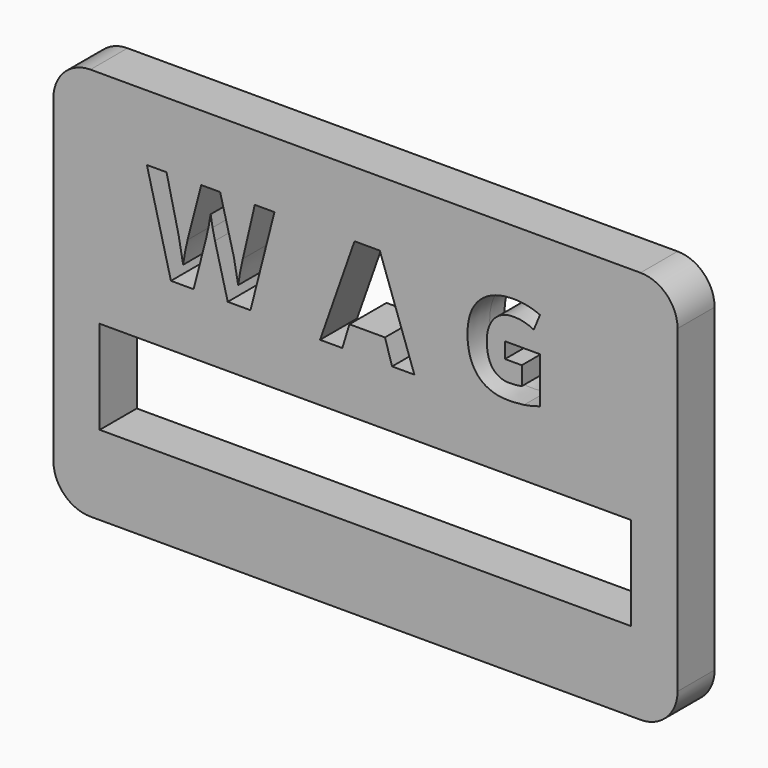
from build123d import *

# Parameters (mm, degrees)
F0_W     = 72.898
F0_H     = 12.8099111192
F1_DEPTH = 2.54
F2_DEPTH = 6.35


with BuildPart() as f1:
    # F0 (on Front) → F1 (new body)
    with BuildSketch(Plane.XZ):
        with BuildLine():
            Line((37.719, 26.9875), (-37.719, 26.9875))
            ThreePointArc((-37.719, 26.9875), (-41.3111024484, 25.4996024484), (-42.799, 21.9075))
            Line((-42.799, 21.9075), (-42.799, -21.9075))
            ThreePointArc((-42.799, -21.9075), (-41.3111024484, -25.4996024484), (-37.719, -26.9875))
            Line((-37.719, -26.9875), (37.719, -26.9875))
            ThreePointArc((37.719, -26.9875), (41.3111024484, -25.4996024484), (42.799, -21.9075))
            Line((42.799, -21.9075), (42.799, 21.9075))
            ThreePointArc((42.799, 21.9075), (41.3111024484, 25.4996024484), (37.719, 26.9875))
        make_face()
        with Locations((0, -9.6914345084)):
            Rectangle(F0_W, F0_H, mode=Mode.SUBTRACT)
        with BuildLine():
            Line((-12.4844893827, 17.9872417715), (-15.7724463003, 5.0700662284))
            Line((-15.7724463003, 5.0700662284), (-18.890775174, 5.0700662284))
            Line((-18.890775174, 5.0700662284), (-20.6407711603, 11.8551879844))
            add(Edge.make_bspline(
                [(-20.6407711603, 11.8551879844), (-20.7368937185, 12.2170611447), (-20.9715458459, 13.3521554719)],
                knots=[0, 0, 0, 1, 1, 1], degree=2))
            add(Edge.make_bspline(
                [(-20.9715458459, 13.3521554719), (-21.2061979733, 14.487249799), (-21.2401235821, 14.8773942999)],
                knots=[0, 0, 0, 1, 1, 1], degree=2))
            add(Edge.make_bspline(
                [(-21.2401235821, 14.8773942999), (-21.2938391293, 14.3996086429), (-21.5058741842, 13.3436740697)],
                knots=[0, 0, 0, 1, 1, 1], degree=2))
            add(Edge.make_bspline(
                [(-21.5058741842, 13.3436740697), (-21.7179092391, 12.2877394964), (-21.8338217357, 11.83822518)],
                knots=[0, 0, 0, 1, 1, 1], degree=2))
            Line((-21.8338217357, 11.83822518), (-23.5725091857, 5.0700662284))
            Line((-23.5725091857, 5.0700662284), (-26.6823566572, 5.0700662284))
            Line((-26.6823566572, 5.0700662284), (-29.9787949771, 17.9872417715))
            Line((-29.9787949771, 17.9872417715), (-27.2845362131, 17.9872417715))
            Line((-27.2845362131, 17.9872417715), (-25.6306627851, 10.9363694133))
            add(Edge.make_bspline(
                [(-25.6306627851, 10.9363694133), (-25.1981112731, 8.9828197744), (-25.0058661567, 7.5522899375)],
                knots=[0, 0, 0, 1, 1, 1], degree=2))
            add(Edge.make_bspline(
                [(-25.0058661567, 7.5522899375), (-24.9521506095, 8.055519801), (-24.7613190601, 9.1114543743)],
                knots=[0, 0, 0, 1, 1, 1], degree=2))
            add(Edge.make_bspline(
                [(-24.7613190601, 9.1114543743), (-24.5704875107, 10.1673889476), (-24.4036866008, 10.749778565)],
                knots=[0, 0, 0, 1, 1, 1], degree=2))
            Line((-24.4036866008, 10.749778565), (-22.5208153135, 17.9872417715))
            Line((-22.5208153135, 17.9872417715), (-19.933987644, 17.9872417715))
            Line((-19.933987644, 17.9872417715), (-18.0511163567, 10.749778565))
            add(Edge.make_bspline(
                [(-18.0511163567, 10.749778565), (-17.9267224579, 10.2663386399), (-17.7415451766, 9.2669467479)],
                knots=[0, 0, 0, 1, 1, 1], degree=2))
            add(Edge.make_bspline(
                [(-17.7415451766, 9.2669467479), (-17.5563678953, 8.2675548559), (-17.4602453371, 7.5522899375)],
                knots=[0, 0, 0, 1, 1, 1], degree=2))
            add(Edge.make_bspline(
                [(-17.4602453371, 7.5522899375), (-17.3726041811, 8.2421106493), (-17.1775319306, 9.271187449)],
                knots=[0, 0, 0, 1, 1, 1], degree=2))
            add(Edge.make_bspline(
                [(-17.1775319306, 9.271187449), (-16.9824596801, 10.3002642487), (-16.8241401725, 10.9363694133)],
                knots=[0, 0, 0, 1, 1, 1], degree=2))
            Line((-16.8241401725, 10.9363694133), (-15.1815752807, 17.9872417715))
            Line((-15.1815752807, 17.9872417715), (-12.4844893827, 17.9872417715))
        make_face(mode=Mode.SUBTRACT)
        Polygon((6.7046481006, 4.5991937256), (3.6464380853, 4.5991937256), (2.6768331858, 7.7862938182), (-2.2034138309, 7.7862938182), (-3.1730187304, 4.5991937256), (-6.2312287457, 4.5991937256), (-1.5062356857, 18.0389136012), (1.962079121, 18.0389136012), align=None, mode=Mode.SUBTRACT)
        with BuildLine():
            Line((19.1349248409, 10.5282055244), (19.1349248409, 12.6722633137))
            Line((19.1349248409, 12.6722633137), (23.9517485981, 12.6722633137))
            Line((23.9517485981, 12.6722633137), (23.9517485981, 6.3782448466))
            add(Edge.make_bspline(
                [(23.9517485981, 6.3782448466), (22.7800887653, 5.9956620441), (21.7465838334, 5.841566193)],
                knots=[0, 0, 0, 1, 1, 1], degree=2))
            add(Edge.make_bspline(
                [(21.7465838334, 5.841566193), (20.7130789015, 5.687470342), (19.6344079443, 5.687470342)],
                knots=[0, 0, 0, 1, 1, 1], degree=2))
            add(Edge.make_bspline(
                [(19.6344079443, 5.687470342), (16.8872508759, 5.687470342), (15.4379528287, 7.3028199528)],
                knots=[0, 0, 0, 1, 1, 1], degree=2))
            add(Edge.make_bspline(
                [(15.4379528287, 7.3028199528), (13.9886547815, 8.9181695636), (13.9886547815, 11.9416364338)],
                knots=[0, 0, 0, 1, 1, 1], degree=2))
            add(Edge.make_bspline(
                [(13.9886547815, 11.9416364338), (13.9886547815, 14.8800849035), (15.6704250177, 16.523331177)],
                knots=[0, 0, 0, 1, 1, 1], degree=2))
            add(Edge.make_bspline(
                [(15.6704250177, 16.523331177), (17.352195254, 18.1665774505), (20.3304960989, 18.1665774505)],
                knots=[0, 0, 0, 1, 1, 1], degree=2))
            add(Edge.make_bspline(
                [(20.3304960989, 18.1665774505), (22.2009009114, 18.1665774505), (23.935807648, 17.4200096205)],
                knots=[0, 0, 0, 1, 1, 1], degree=2))
            Line((23.935807648, 17.4200096205), (23.0803099923, 15.3609702317))
            add(Edge.make_bspline(
                [(23.0803099923, 15.3609702317), (21.7518974834, 16.0251764861), (20.3145551488, 16.0251764861)],
                knots=[0, 0, 0, 1, 1, 1], degree=2))
            add(Edge.make_bspline(
                [(20.3145551488, 16.0251764861), (18.6460690376, 16.0251764861), (17.6417891809, 14.9039963286)],
                knots=[0, 0, 0, 1, 1, 1], degree=2))
            add(Edge.make_bspline(
                [(17.6417891809, 14.9039963286), (16.6375093242, 13.7828161711), (16.6375093242, 11.8911567585)],
                knots=[0, 0, 0, 1, 1, 1], degree=2))
            add(Edge.make_bspline(
                [(16.6375093242, 11.8911567585), (16.6375093242, 9.9144789453), (17.4465125421, 8.8730035383)],
                knots=[0, 0, 0, 1, 1, 1], degree=2))
            add(Edge.make_bspline(
                [(17.4465125421, 8.8730035383), (18.25551576, 7.8315281314), (19.7991310954, 7.8315281314)],
                knots=[0, 0, 0, 1, 1, 1], degree=2))
            add(Edge.make_bspline(
                [(19.7991310954, 7.8315281314), (20.6068059008, 7.8315281314), (21.4357353063, 7.9962512825)],
                knots=[0, 0, 0, 1, 1, 1], degree=2))
            Line((21.4357353063, 7.9962512825), (21.4357353063, 10.5282055244))
            Line((21.4357353063, 10.5282055244), (19.1349248409, 10.5282055244))
        make_face(mode=Mode.SUBTRACT)
    extrude(amount=F1_DEPTH)

    # F0 (on Front) → F2 (join)
    with BuildSketch(Plane.XZ):
        with BuildLine():
            Line((37.719, 26.9875), (-37.719, 26.9875))
            ThreePointArc((-37.719, 26.9875), (-41.3111024484, 25.4996024484), (-42.799, 21.9075))
            Line((-42.799, 21.9075), (-42.799, -21.9075))
            ThreePointArc((-42.799, -21.9075), (-41.3111024484, -25.4996024484), (-37.719, -26.9875))
            Line((-37.719, -26.9875), (37.719, -26.9875))
            ThreePointArc((37.719, -26.9875), (41.3111024484, -25.4996024484), (42.799, -21.9075))
            Line((42.799, -21.9075), (42.799, 21.9075))
            ThreePointArc((42.799, 21.9075), (41.3111024484, 25.4996024484), (37.719, 26.9875))
        make_face()
        with Locations((0, -9.6914345084)):
            Rectangle(F0_W, F0_H, mode=Mode.SUBTRACT)
        with BuildLine():
            Line((-12.4844893827, 17.9872417715), (-15.7724463003, 5.0700662284))
            Line((-15.7724463003, 5.0700662284), (-18.890775174, 5.0700662284))
            Line((-18.890775174, 5.0700662284), (-20.6407711603, 11.8551879844))
            add(Edge.make_bspline(
                [(-20.6407711603, 11.8551879844), (-20.7368937185, 12.2170611447), (-20.9715458459, 13.3521554719)],
                knots=[0, 0, 0, 1, 1, 1], degree=2))
            add(Edge.make_bspline(
                [(-20.9715458459, 13.3521554719), (-21.2061979733, 14.487249799), (-21.2401235821, 14.8773942999)],
                knots=[0, 0, 0, 1, 1, 1], degree=2))
            add(Edge.make_bspline(
                [(-21.2401235821, 14.8773942999), (-21.2938391293, 14.3996086429), (-21.5058741842, 13.3436740697)],
                knots=[0, 0, 0, 1, 1, 1], degree=2))
            add(Edge.make_bspline(
                [(-21.5058741842, 13.3436740697), (-21.7179092391, 12.2877394964), (-21.8338217357, 11.83822518)],
                knots=[0, 0, 0, 1, 1, 1], degree=2))
            Line((-21.8338217357, 11.83822518), (-23.5725091857, 5.0700662284))
            Line((-23.5725091857, 5.0700662284), (-26.6823566572, 5.0700662284))
            Line((-26.6823566572, 5.0700662284), (-29.9787949771, 17.9872417715))
            Line((-29.9787949771, 17.9872417715), (-27.2845362131, 17.9872417715))
            Line((-27.2845362131, 17.9872417715), (-25.6306627851, 10.9363694133))
            add(Edge.make_bspline(
                [(-25.6306627851, 10.9363694133), (-25.1981112731, 8.9828197744), (-25.0058661567, 7.5522899375)],
                knots=[0, 0, 0, 1, 1, 1], degree=2))
            add(Edge.make_bspline(
                [(-25.0058661567, 7.5522899375), (-24.9521506095, 8.055519801), (-24.7613190601, 9.1114543743)],
                knots=[0, 0, 0, 1, 1, 1], degree=2))
            add(Edge.make_bspline(
                [(-24.7613190601, 9.1114543743), (-24.5704875107, 10.1673889476), (-24.4036866008, 10.749778565)],
                knots=[0, 0, 0, 1, 1, 1], degree=2))
            Line((-24.4036866008, 10.749778565), (-22.5208153135, 17.9872417715))
            Line((-22.5208153135, 17.9872417715), (-19.933987644, 17.9872417715))
            Line((-19.933987644, 17.9872417715), (-18.0511163567, 10.749778565))
            add(Edge.make_bspline(
                [(-18.0511163567, 10.749778565), (-17.9267224579, 10.2663386399), (-17.7415451766, 9.2669467479)],
                knots=[0, 0, 0, 1, 1, 1], degree=2))
            add(Edge.make_bspline(
                [(-17.7415451766, 9.2669467479), (-17.5563678953, 8.2675548559), (-17.4602453371, 7.5522899375)],
                knots=[0, 0, 0, 1, 1, 1], degree=2))
            add(Edge.make_bspline(
                [(-17.4602453371, 7.5522899375), (-17.3726041811, 8.2421106493), (-17.1775319306, 9.271187449)],
                knots=[0, 0, 0, 1, 1, 1], degree=2))
            add(Edge.make_bspline(
                [(-17.1775319306, 9.271187449), (-16.9824596801, 10.3002642487), (-16.8241401725, 10.9363694133)],
                knots=[0, 0, 0, 1, 1, 1], degree=2))
            Line((-16.8241401725, 10.9363694133), (-15.1815752807, 17.9872417715))
            Line((-15.1815752807, 17.9872417715), (-12.4844893827, 17.9872417715))
        make_face(mode=Mode.SUBTRACT)
        Polygon((6.7046481006, 4.5991937256), (3.6464380853, 4.5991937256), (2.6768331858, 7.7862938182), (-2.2034138309, 7.7862938182), (-3.1730187304, 4.5991937256), (-6.2312287457, 4.5991937256), (-1.5062356857, 18.0389136012), (1.962079121, 18.0389136012), align=None, mode=Mode.SUBTRACT)
        with BuildLine():
            Line((19.1349248409, 10.5282055244), (19.1349248409, 12.6722633137))
            Line((19.1349248409, 12.6722633137), (23.9517485981, 12.6722633137))
            Line((23.9517485981, 12.6722633137), (23.9517485981, 6.3782448466))
            add(Edge.make_bspline(
                [(23.9517485981, 6.3782448466), (22.7800887653, 5.9956620441), (21.7465838334, 5.841566193)],
                knots=[0, 0, 0, 1, 1, 1], degree=2))
            add(Edge.make_bspline(
                [(21.7465838334, 5.841566193), (20.7130789015, 5.687470342), (19.6344079443, 5.687470342)],
                knots=[0, 0, 0, 1, 1, 1], degree=2))
            add(Edge.make_bspline(
                [(19.6344079443, 5.687470342), (16.8872508759, 5.687470342), (15.4379528287, 7.3028199528)],
                knots=[0, 0, 0, 1, 1, 1], degree=2))
            add(Edge.make_bspline(
                [(15.4379528287, 7.3028199528), (13.9886547815, 8.9181695636), (13.9886547815, 11.9416364338)],
                knots=[0, 0, 0, 1, 1, 1], degree=2))
            add(Edge.make_bspline(
                [(13.9886547815, 11.9416364338), (13.9886547815, 14.8800849035), (15.6704250177, 16.523331177)],
                knots=[0, 0, 0, 1, 1, 1], degree=2))
            add(Edge.make_bspline(
                [(15.6704250177, 16.523331177), (17.352195254, 18.1665774505), (20.3304960989, 18.1665774505)],
                knots=[0, 0, 0, 1, 1, 1], degree=2))
            add(Edge.make_bspline(
                [(20.3304960989, 18.1665774505), (22.2009009114, 18.1665774505), (23.935807648, 17.4200096205)],
                knots=[0, 0, 0, 1, 1, 1], degree=2))
            Line((23.935807648, 17.4200096205), (23.0803099923, 15.3609702317))
            add(Edge.make_bspline(
                [(23.0803099923, 15.3609702317), (21.7518974834, 16.0251764861), (20.3145551488, 16.0251764861)],
                knots=[0, 0, 0, 1, 1, 1], degree=2))
            add(Edge.make_bspline(
                [(20.3145551488, 16.0251764861), (18.6460690376, 16.0251764861), (17.6417891809, 14.9039963286)],
                knots=[0, 0, 0, 1, 1, 1], degree=2))
            add(Edge.make_bspline(
                [(17.6417891809, 14.9039963286), (16.6375093242, 13.7828161711), (16.6375093242, 11.8911567585)],
                knots=[0, 0, 0, 1, 1, 1], degree=2))
            add(Edge.make_bspline(
                [(16.6375093242, 11.8911567585), (16.6375093242, 9.9144789453), (17.4465125421, 8.8730035383)],
                knots=[0, 0, 0, 1, 1, 1], degree=2))
            add(Edge.make_bspline(
                [(17.4465125421, 8.8730035383), (18.25551576, 7.8315281314), (19.7991310954, 7.8315281314)],
                knots=[0, 0, 0, 1, 1, 1], degree=2))
            add(Edge.make_bspline(
                [(19.7991310954, 7.8315281314), (20.6068059008, 7.8315281314), (21.4357353063, 7.9962512825)],
                knots=[0, 0, 0, 1, 1, 1], degree=2))
            Line((21.4357353063, 7.9962512825), (21.4357353063, 10.5282055244))
            Line((21.4357353063, 10.5282055244), (19.1349248409, 10.5282055244))
        make_face(mode=Mode.SUBTRACT)
    extrude(amount=F2_DEPTH)


solid = f1.part
